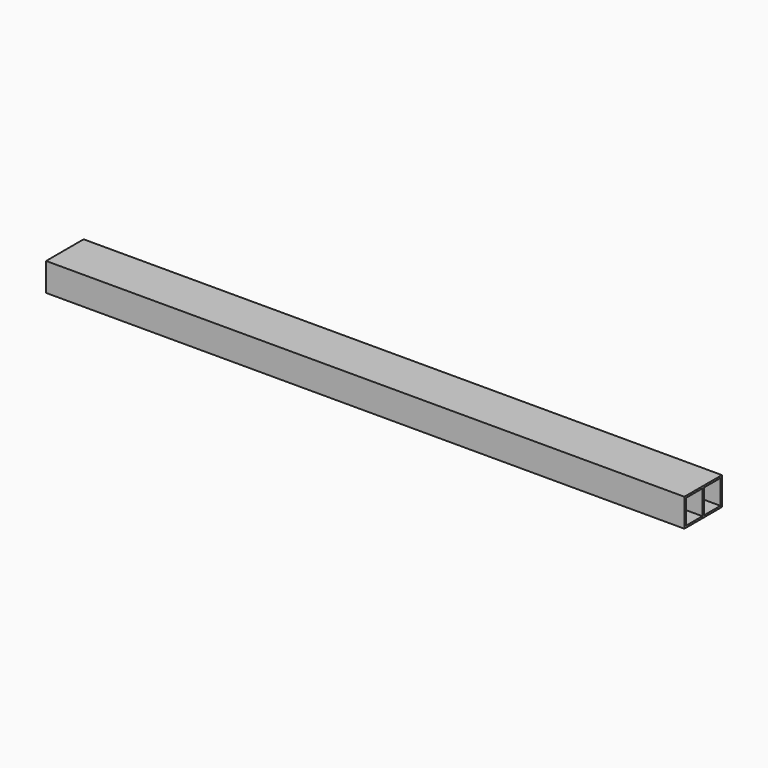
from build123d import *

# Parameters (mm, degrees)
F0_W     = 50
F0_H     = 30
F0_W_2   = 22
F0_H_2   = 26
F1_DEPTH = 680


with BuildPart() as f1:
    # F0 (on Right) → F1 (new body)
    with BuildSketch(Plane.YZ):
        Rectangle(F0_W, F0_H)
        with Locations((-12, 0)):
            Rectangle(F0_W_2, F0_H_2, mode=Mode.SUBTRACT)
        with Locations((12, 0)):
            Rectangle(F0_W_2, F0_H_2, mode=Mode.SUBTRACT)
    extrude(amount=F1_DEPTH)


solid = f1.part
